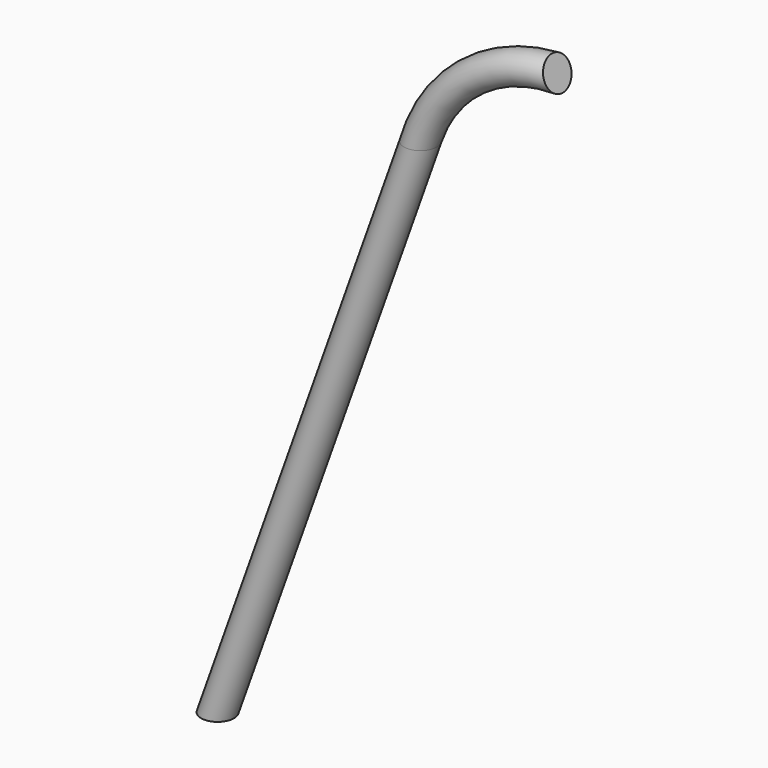
from build123d import *

# Parameters (mm, degrees)
F0_R = 12.5


with BuildPart() as f2:
    # F2: sweep along a path in F1
    with BuildLine(Plane.XZ) as f2_path:
        Line((0, 0), (154.3070524334, 432.53824521))
        ThreePointArc((154.3070524334, 432.53824521), (191.4589277231, 481.4391645952), (250, 500))
    # F0 (on Top) → F2 (sweep)
    with BuildSketch(Plane.XY):
        with Locations((-12.5, 0)):
            Circle(F0_R)
    sweep(path=f2_path.line)


solid = f2.part
